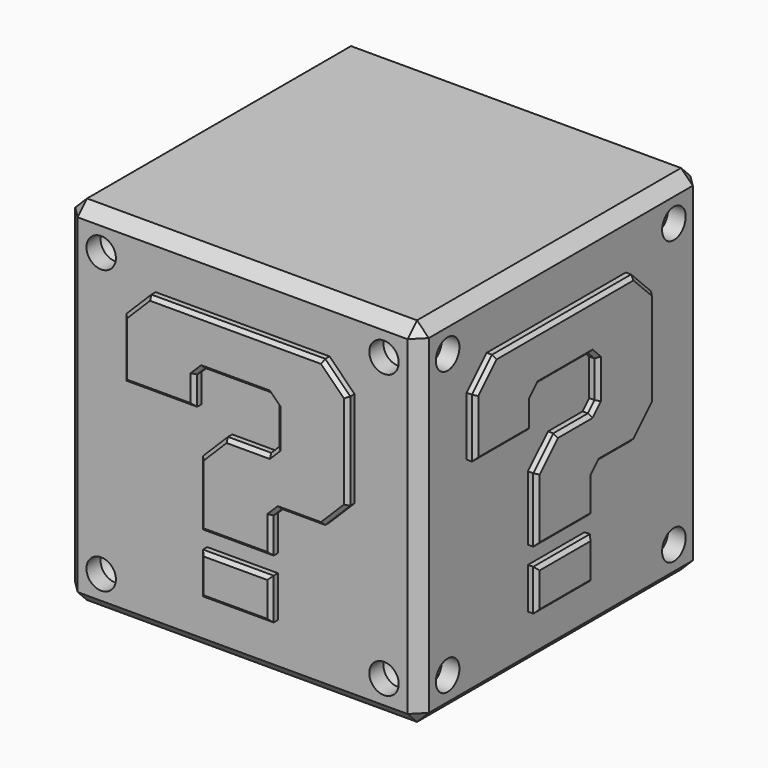
from build123d import *

# Parameters (mm, degrees)
F17_W     = 76.2
F17_H     = 76.2
F0_DEPTH  = 38.1
F1_SIZE   = 2.54
F2_D      = 6.35
F2_DEPTH  = 3.81
F2_TIP    = 1.9077324654
F3_D      = 6.35
F3_DEPTH  = 3.81
F3_TIP    = 1.9077324654
F5_D      = 6.35
F5_DEPTH  = 3.81
F5_TIP    = 1.9077324654
F7_D      = 6.35
F7_DEPTH  = 3.81
F7_TIP    = 1.9077324654
F8_W      = 15.24
F8_H      = 8.89
F9_DEPTH  = 1.905
F10_SIZE  = 0.762
F19_W     = 15.24
F19_H     = 8.89
F11_DEPTH = 1.905
F12_SIZE  = 0.762
F4_W      = 15.24
F4_H      = 8.89
F13_DEPTH = 1.905
F14_SIZE  = 0.762
F6_W      = 15.24
F6_H      = 8.89
F15_DEPTH = 1.905
F16_SIZE  = 0.762


with BuildPart() as f0:
    # F17 (on Front) → F0 (new body, symmetric)
    with BuildSketch(Plane.XZ):
        Rectangle(F17_W, F17_H)
    extrude(amount=F0_DEPTH, both=True)

    # F1
    f1_edges = [f0.edges().sort_by_distance(p)[0] for p in [
        (38.1, 0, 38.1),
        (0, 38.1, 38.1),
        (-38.1, 0, 38.1),
        (0, -38.1, 38.1),
        (38.1, 0, -38.1),
        (38.1, 38.1, 0),
        (38.1, -38.1, 0),
        (0, -38.1, -38.1),
        (-38.1, -38.1, 0),
        (0, 38.1, -38.1),
        (-38.1, 38.1, 0),
        (-38.1, 0, -38.1),
    ]]
    chamfer(f1_edges, length=F1_SIZE)

    # F2
    with Locations(Plane.XZ.offset(38.1)):
        with Locations((-30.48, 30.48), (30.48, 30.48), (30.48, -30.48), (-30.48, -30.48)):
            Hole(F2_D / 2, depth=F2_DEPTH)
            with Locations((0, 0, -(F2_DEPTH + F2_TIP / 2))):  # 118° drill point
                Cone(0, F2_D / 2, F2_TIP, mode=Mode.SUBTRACT)

    # F3
    with Locations(Plane.YZ.offset(38.1)):
        with Locations((-30.48, 30.48), (30.48, 30.48), (30.48, -30.48), (-30.48, -30.48)):
            Hole(F3_D / 2, depth=F3_DEPTH)
            with Locations((0, 0, -(F3_DEPTH + F3_TIP / 2))):  # 118° drill point
                Cone(0, F3_D / 2, F3_TIP, mode=Mode.SUBTRACT)

    # F5
    with Locations(Plane(origin=(0, 38.1, 0), x_dir=(-1, 0, 0), z_dir=(0, 1, 0))):
        with Locations((-30.48, 30.48), (30.48, 30.48), (30.48, -30.48), (-30.48, -30.48)):
            Hole(F5_D / 2, depth=F5_DEPTH)
            with Locations((0, 0, -(F5_DEPTH + F5_TIP / 2))):  # 118° drill point
                Cone(0, F5_D / 2, F5_TIP, mode=Mode.SUBTRACT)

    # F7
    with Locations(Plane(origin=(-38.1, 0, 0), x_dir=(0, -1, 0), z_dir=(-1, 0, 0))):
        with Locations((-30.48, 30.48), (30.48, 30.48), (30.48, -30.48), (-30.48, -30.48)):
            Hole(F7_D / 2, depth=F7_DEPTH)
            with Locations((0, 0, -(F7_DEPTH + F7_TIP / 2))):  # 118° drill point
                Cone(0, F7_D / 2, F7_TIP, mode=Mode.SUBTRACT)

    # F8 (on face) → F9 (join)
    with BuildSketch(Plane.XZ.offset(38.1)):
        Polygon((-7.62, -0.1897853094), (-7.62, -14.1224), (7.62, -14.1224), (7.62, -6.5024), (9.4160512242, -4.7063487758), (18.7418463274, -4.7063487758), (24.13, 0.6818048969), (24.13, 21.4376), (18.7418463274, 26.8257536726), (-18.7418463274, 26.8257536726), (-24.13, 21.4376), (-24.13, 8.7376), (-8.89, 8.7376), (-8.89, 14.8697024484), (-7.0939487758, 16.6657536726), (7.0939487758, 16.6657536726), (8.89, 14.8697024484), (8.89, 6.9944195874), (7.0939487758, 5.1983683632), (-2.2318463274, 5.1983683632), align=None)
        with Locations((0, -22.3774)):
            Rectangle(F8_W, F8_H)
    extrude(amount=F9_DEPTH)

    # F10
    f10_edges = [f0.edges().sort_by_distance(p)[0] for p in [
        (2.431051, -40.005, 5.198368),
        (-4.925923, -40.005, 2.504292),
        (-7.62, -40.005, -7.156093),
        (0, -40.005, -14.1224),
        (7.62, -40.005, -10.3124),
        (8.518026, -40.005, -5.604374),
        (14.078949, -40.005, -4.706349),
        (21.435923, -40.005, -2.012272),
        (24.13, -40.005, 11.059702),
        (21.435923, -40.005, 24.131677),
        (0, -40.005, 26.825754),
        (-21.435923, -40.005, 24.131677),
        (-24.13, -40.005, 15.0876),
        (-16.51, -40.005, 8.7376),
        (-8.89, -40.005, 11.803651),
        (-7.991974, -40.005, 15.767728),
        (0, -40.005, 16.665754),
        (7.991974, -40.005, 15.767728),
        (8.89, -40.005, 10.932061),
        (7.991974, -40.005, 6.096394),
        (7.62, -40.005, -22.3774),
        (0, -40.005, -17.9324),
        (-7.62, -40.005, -22.3774),
        (0, -40.005, -26.8224),
    ]]
    chamfer(f10_edges, length=F10_SIZE)

    # F19 (on face) → F11 (join)
    with BuildSketch(Plane.YZ.offset(38.1)):
        Polygon((-8.842962963, -0.5847593071), (-8.842962963, -14.5173739977), (6.397037037, -14.5173739977), (6.397037037, -6.8973739977), (8.1930882613, -5.1013227735), (17.5188833644, -5.1013227735), (22.907037037, 0.2868308992), (22.907037037, 21.0426260023), (17.5188833644, 26.430779675), (-19.9648092903, 26.430779675), (-25.352962963, 21.0426260023), (-25.352962963, 8.3426260023), (-10.112962963, 8.3426260023), (-10.112962963, 14.4747284508), (-8.3169117387, 16.270779675), (5.8709858128, 16.270779675), (7.667037037, 14.4747284508), (7.667037037, 6.5994455898), (5.8709858128, 4.8033943655), (-3.4548092903, 4.8033943655), align=None)
        with Locations((-1.222962963, -22.7723739977)):
            Rectangle(F19_W, F19_H)
    extrude(amount=F11_DEPTH)

    # F12
    f12_edges = [f0.edges().sort_by_distance(p)[0] for p in [
        (40.005, 20.21296, 23.736703),
        (40.005, -1.222963, 26.43078),
        (40.005, -22.658886, 23.736703),
        (40.005, -25.352963, 14.692626),
        (40.005, -17.732963, 8.342626),
        (40.005, -10.112963, 11.408677),
        (40.005, -9.214937, 15.372754),
        (40.005, -1.222963, 16.27078),
        (40.005, 6.769011, 15.372754),
        (40.005, 7.667037, 10.537087),
        (40.005, 6.769011, 5.70142),
        (40.005, 1.208088, 4.803394),
        (40.005, -6.148886, 2.109318),
        (40.005, -8.842963, -7.551067),
        (40.005, -1.222963, -14.517374),
        (40.005, 6.397037, -10.707374),
        (40.005, 7.295063, -5.999348),
        (40.005, 12.855986, -5.101323),
        (40.005, 20.21296, -2.407246),
        (40.005, 22.907037, 10.664728),
        (40.005, -1.222963, -27.217374),
        (40.005, 6.397037, -22.772374),
        (40.005, -1.222963, -18.327374),
        (40.005, -8.842963, -22.772374),
    ]]
    chamfer(f12_edges, length=F12_SIZE)

    # F4 (on face) → F13 (join)
    with BuildSketch(Plane(origin=(0, 38.1, 0), x_dir=(-1, 0, 0), z_dir=(0, 1, 0))):
        Polygon((-8.842962963, -0.5847593071), (-8.842962963, -14.5173739977), (6.397037037, -14.5173739977), (6.397037037, -6.8973739977), (8.1930882613, -5.1013227735), (17.5188833644, -5.1013227735), (22.907037037, 0.2868308992), (22.907037037, 21.0426260023), (17.5188833644, 26.430779675), (-19.9648092903, 26.430779675), (-25.352962963, 21.0426260023), (-25.352962963, 8.3426260023), (-10.112962963, 8.3426260023), (-10.112962963, 14.4747284508), (-8.3169117387, 16.270779675), (5.8709858128, 16.270779675), (7.667037037, 14.4747284508), (7.667037037, 6.5994455898), (5.8709858128, 4.8033943655), (-3.4548092903, 4.8033943655), align=None)
        with Locations((-1.222962963, -22.7723739977)):
            Rectangle(F4_W, F4_H)
    extrude(amount=F13_DEPTH)

    # F14
    f14_edges = [f0.edges().sort_by_distance(p)[0] for p in [
        (-20.21296, 40.005, 23.736703),
        (1.222963, 40.005, 26.43078),
        (22.658886, 40.005, 23.736703),
        (25.352963, 40.005, 14.692626),
        (17.732963, 40.005, 8.342626),
        (10.112963, 40.005, 11.408677),
        (9.214937, 40.005, 15.372754),
        (1.222963, 40.005, 16.27078),
        (-6.769011, 40.005, 15.372754),
        (-7.667037, 40.005, 10.537087),
        (-6.769011, 40.005, 5.70142),
        (-1.208088, 40.005, 4.803394),
        (6.148886, 40.005, 2.109318),
        (8.842963, 40.005, -7.551067),
        (1.222963, 40.005, -14.517374),
        (-6.397037, 40.005, -10.707374),
        (-7.295063, 40.005, -5.999348),
        (-12.855986, 40.005, -5.101323),
        (-20.21296, 40.005, -2.407246),
        (-22.907037, 40.005, 10.664728),
        (1.222963, 40.005, -27.217374),
        (-6.397037, 40.005, -22.772374),
        (1.222963, 40.005, -18.327374),
        (8.842963, 40.005, -22.772374),
    ]]
    chamfer(f14_edges, length=F14_SIZE)

    # F6 (on face) → F15 (join)
    with BuildSketch(Plane(origin=(-38.1, 0, 0), x_dir=(0, -1, 0), z_dir=(-1, 0, 0))):
        Polygon((-8.842962963, -0.5847593071), (-8.842962963, -14.5173739977), (6.397037037, -14.5173739977), (6.397037037, -6.8973739977), (8.1930882613, -5.1013227735), (17.5188833644, -5.1013227735), (22.907037037, 0.2868308992), (22.907037037, 21.0426260023), (17.5188833644, 26.430779675), (-19.9648092903, 26.430779675), (-25.352962963, 21.0426260023), (-25.352962963, 8.3426260023), (-10.112962963, 8.3426260023), (-10.112962963, 14.4747284508), (-8.3169117387, 16.270779675), (5.8709858128, 16.270779675), (7.667037037, 14.4747284508), (7.667037037, 6.5994455898), (5.8709858128, 4.8033943655), (-3.4548092903, 4.8033943655), align=None)
        with Locations((-1.222962963, -22.7723739977)):
            Rectangle(F6_W, F6_H)
    extrude(amount=F15_DEPTH)

    # F16
    f16_edges = [f0.edges().sort_by_distance(p)[0] for p in [
        (-40.005, -20.21296, 23.736703),
        (-40.005, 1.222963, 26.43078),
        (-40.005, 22.658886, 23.736703),
        (-40.005, 25.352963, 14.692626),
        (-40.005, 17.732963, 8.342626),
        (-40.005, 10.112963, 11.408677),
        (-40.005, 9.214937, 15.372754),
        (-40.005, 1.222963, 16.27078),
        (-40.005, -6.769011, 15.372754),
        (-40.005, -7.667037, 10.537087),
        (-40.005, -6.769011, 5.70142),
        (-40.005, -1.208088, 4.803394),
        (-40.005, 6.148886, 2.109318),
        (-40.005, 8.842963, -7.551067),
        (-40.005, 1.222963, -14.517374),
        (-40.005, -6.397037, -10.707374),
        (-40.005, -7.295063, -5.999348),
        (-40.005, -12.855986, -5.101323),
        (-40.005, -20.21296, -2.407246),
        (-40.005, -22.907037, 10.664728),
        (-40.005, 1.222963, -27.217374),
        (-40.005, -6.397037, -22.772374),
        (-40.005, 1.222963, -18.327374),
        (-40.005, 8.842963, -22.772374),
    ]]
    chamfer(f16_edges, length=F16_SIZE)


solid = f0.part
